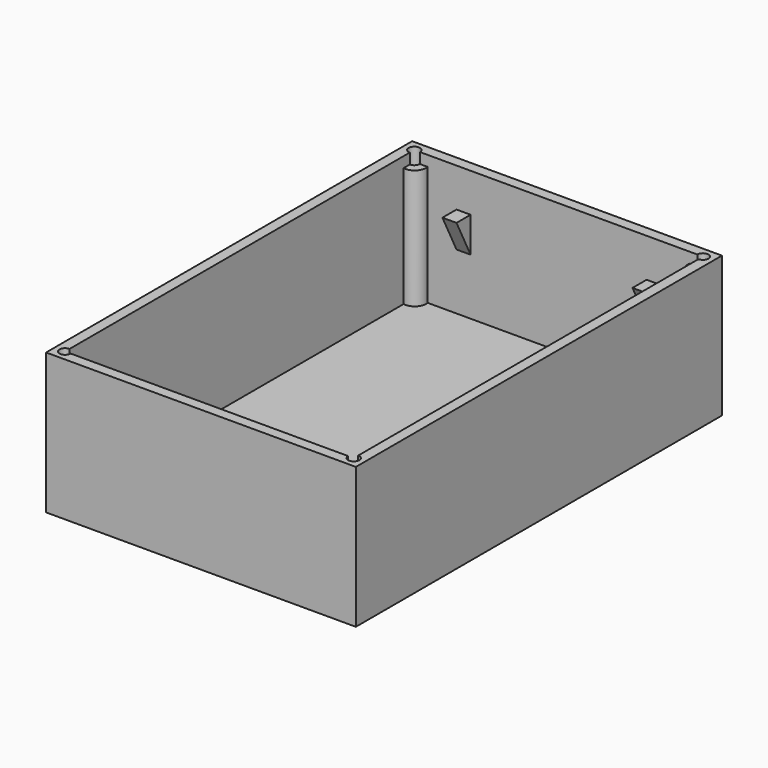
from build123d import *

# Parameters (mm, degrees)
F0_W      = 44
F0_H      = 65
F1_DEPTH  = 20
F2_W      = 41
F2_H      = 62
F3_DEPTH  = 18.5
F4_W      = 2
F4_H      = 5
F5_DEPTH  = 5
F7_DEPTH  = 30
F8_W      = 2
F8_H      = 5
F9_DEPTH  = 5
F11_DEPTH = 30
F13_R     = 1.625
F14_DEPTH = 17
F15_R     = 0.8
F16_DEPTH = 17


with BuildPart() as f1:
    # F0 (on Top) → F1 (new body)
    with BuildSketch(Plane.XY):
        with Locations((-23.4515, -66.719449)):
            Rectangle(F0_W, F0_H)
    extrude(amount=F1_DEPTH)

    # F2 (on face) → F3 (cut)
    with BuildSketch(Plane.XY.offset(20)):
        with Locations((-23.4515, -66.719449)):
            Rectangle(F2_W, F2_H)
    extrude(amount=-F3_DEPTH, mode=Mode.SUBTRACT)

    # F4 (on face) → F5 (join)
    with BuildSketch(Plane.XZ.offset(35.719449)):
        with Locations((-36.9515, 12)):
            Rectangle(F4_W, F4_H)
        with Locations((-9.9515, 12)):
            Rectangle(F4_W, F4_H)
    extrude(amount=F5_DEPTH)

    # F6 (on face) → F7 (cut)
    with BuildSketch(Plane(origin=(-37.9515, 0, 0), x_dir=(0, -1, 0), z_dir=(-1, 0, 0))):
        Polygon((38.219449, 14.5), (35.719449, 9.5), (40.719449, 9.5), (40.719449, 14.5), align=None)
    extrude(amount=-F7_DEPTH, mode=Mode.SUBTRACT)

    # F8 (on face) → F9 (join)
    with BuildSketch(Plane(origin=(0, -97.719449, 0), x_dir=(-1, 0, 0), z_dir=(0, 1, 0))):
        with Locations((36.9515, 12)):
            Rectangle(F8_W, F8_H)
        with Locations((9.9515, 12)):
            Rectangle(F8_W, F8_H)
    extrude(amount=F9_DEPTH)

    # F10 (on face) → F11 (cut)
    with BuildSketch(Plane.YZ.offset(-8.9515)):
        Polygon((-95.219449, 14.5), (-97.719449, 9.5), (-92.719449, 9.5), (-92.719449, 14.5), align=None)
    extrude(amount=-F11_DEPTH, mode=Mode.SUBTRACT)

    # F13 (on face) → F14 (join)
    with BuildSketch(Plane.XY.offset(1.5)):
        with Locations((-43.6515, -36.019449)):
            Circle(F13_R)
        with Locations((-3.2515, -36.019449)):
            Circle(F13_R)
        with Locations((-3.2515, -97.419449)):
            Circle(F13_R)
        with Locations((-43.6515, -97.419449)):
            Circle(F13_R)
    extrude(amount=F14_DEPTH)

    # F15 (on face) → F16 (cut)
    with BuildSketch(Plane.XY.offset(20)):
        with Locations((-43.9515, -97.719449)):
            Circle(F15_R)
        with Locations((-2.9515, -97.719449)):
            Circle(F15_R)
        with Locations((-43.9515, -35.719449)):
            Circle(F15_R)
        with Locations((-2.9515, -35.719449)):
            Circle(F15_R)
    extrude(amount=-F16_DEPTH, mode=Mode.SUBTRACT)


solid = f1.part
